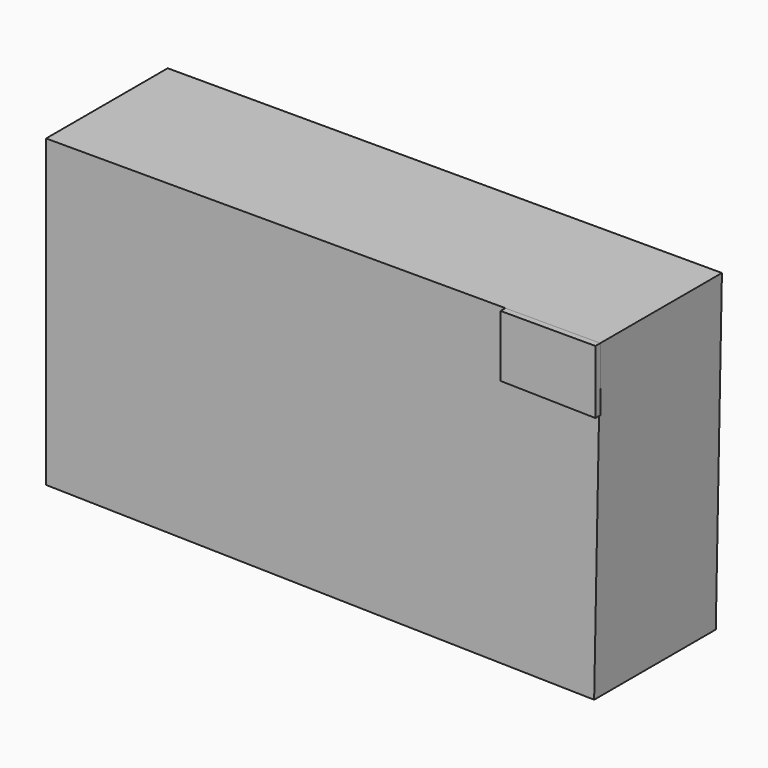
from build123d import *

# Parameters (mm, degrees)
F1_DEPTH = 635
F3_DEPTH = 25.4


with BuildPart() as f1:
    # F0 (on Front) → F1 (new body)
    with BuildSketch(Plane.XZ):
        Polygon((1984.657364, 1274.002671), (-329.919636, 1274.002671), (-329.919636, 0), (1958.989263, -45.472648), align=None)
    extrude(amount=F1_DEPTH)


with BuildPart() as f3:
    # F2 (on face) → F3 (new body)
    with BuildSketch(Plane.XZ.offset(635)):
        Polygon((1984.657364, 1008.898824), (1984.657364, 1274.002671), (1588.273287, 1274.002671), (1588.273287, 1016.609788), align=None)
    extrude(amount=F3_DEPTH)


solid = Compound([f1.part, f3.part])
